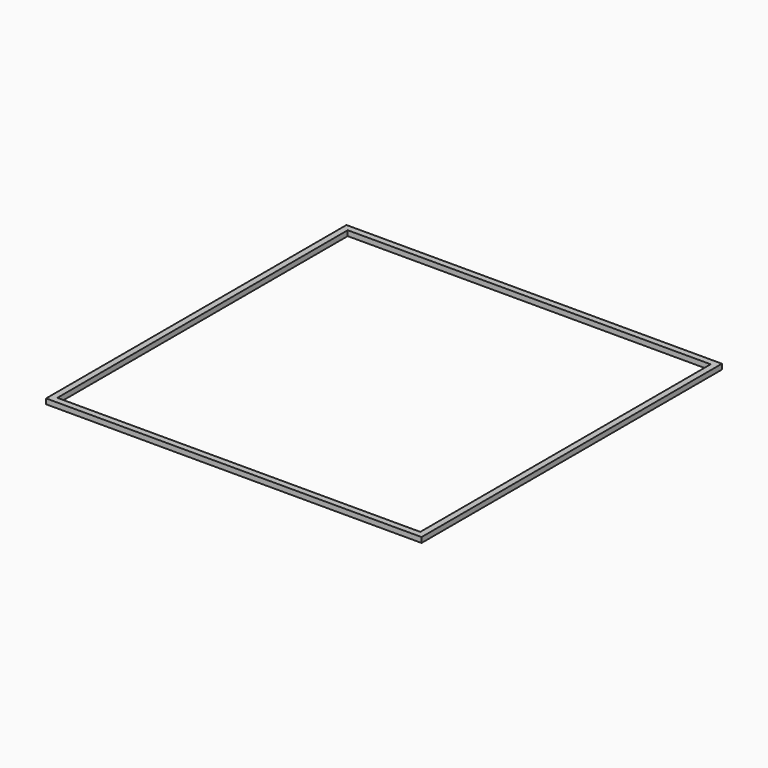
from build123d import *

# Parameters (mm, degrees)
F0_W     = 180
F0_H     = 180
F0_W_2   = 174
F0_H_2   = 174
F1_DEPTH = 2.5
F2_DEPTH = 25


with BuildPart() as f1:
    # F0 (on Top) → F1 (new body)
    with BuildSketch(Plane.XY):
        with Locations((-70.017586, 2.55201)):
            Rectangle(F0_W, F0_H)
        with Locations((-70.017586, 2.55201)):
            Rectangle(F0_W_2, F0_H_2, mode=Mode.SUBTRACT)
    extrude(amount=F1_DEPTH)

    # F0 (on Top) → F2 (cut)
    with BuildSketch(Plane.XY):
        with Locations((-70.017586, 2.55201)):
            Rectangle(F0_W_2, F0_H_2)
    extrude(amount=-F2_DEPTH, mode=Mode.SUBTRACT)


solid = f1.part
